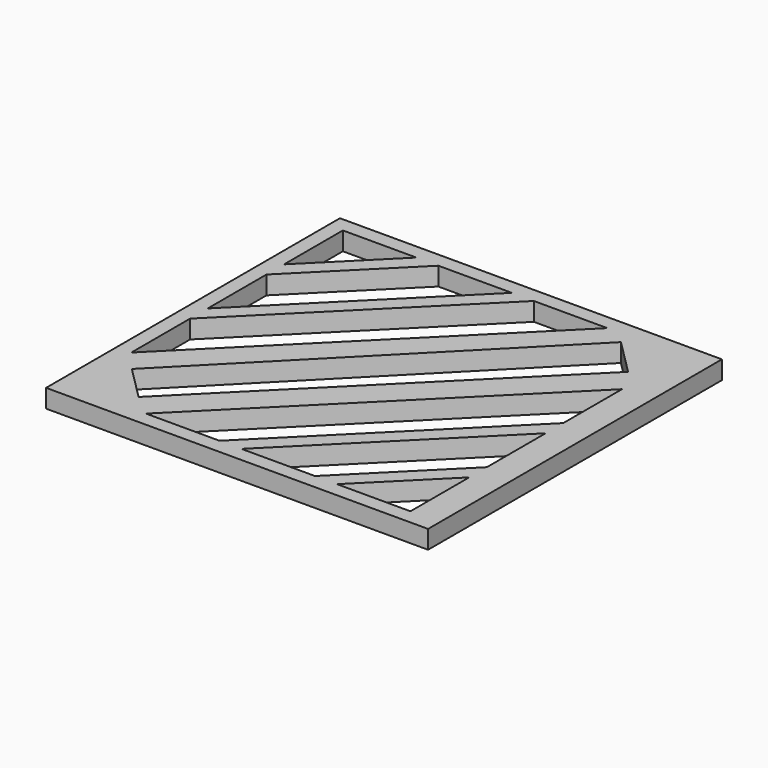
from build123d import *

# Parameters (mm, degrees)
F0_W     = 66.04
F0_H     = 63.5
F1_DEPTH = 3.175


with BuildPart() as f1:
    # F0 (on Top) → F1 (new body)
    with BuildSketch(Plane.XY):
        with Locations((-1.44695, 8.689474)):
            Rectangle(F0_W, F0_H)
        Polygon((26.49305, -7.820526), (26.49305, -20.520526), (13.79305, -20.520526), align=None, mode=Mode.SUBTRACT)
        Polygon((9.98305, -20.520526), (-2.71695, -20.520526), (26.49305, 8.689474), (26.49305, -4.010526), align=None, mode=Mode.SUBTRACT)
        Polygon((-6.52695, -20.520526), (-19.22695, -20.520526), (26.49305, 25.199474), (26.49305, 12.499474), align=None, mode=Mode.SUBTRACT)
        Polygon((-23.051002, -17.343941), (-28.871995, -11.522948), (17.787461, 35.850122), (23.965261, 29.672322), align=None, mode=Mode.SUBTRACT)
        Polygon((-31.92695, 4.879474), (1.09305, 37.899474), (13.79305, 37.899474), (-31.92695, -7.820526), align=None, mode=Mode.SUBTRACT)
        Polygon((-31.92695, 8.689474), (-31.92695, 21.389474), (-15.41695, 37.899474), (-2.71695, 37.899474), align=None, mode=Mode.SUBTRACT)
        Polygon((-31.92695, 25.199474), (-31.92695, 37.899474), (-19.22695, 37.899474), align=None, mode=Mode.SUBTRACT)
    extrude(amount=F1_DEPTH)


solid = f1.part
